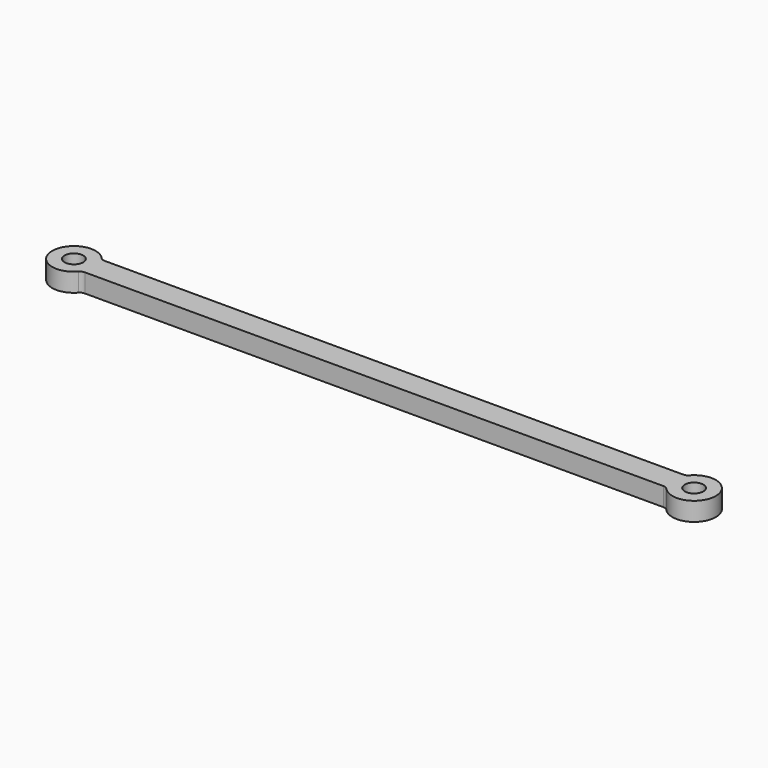
from build123d import *

# Parameters (mm, degrees)
F0_R     = 1.5
F1_DEPTH = 1.5


with BuildPart() as f1:
    # F0 (on Top) → F1 (new body, symmetric)
    with BuildSketch(Plane.XY):
        with BuildLine():
            ThreePointArc((-46.645898, 2), (-47.054146, 2.087129), (-47.391254, 2.333333))
            ThreePointArc((-47.391254, 2.333333), (-53.5, 0), (-47.391254, -2.333333))
            ThreePointArc((-47.391254, -2.333333), (-47.054146, -2.087129), (-46.645898, -2))
            Line((-46.645898, -2), (0, -2))
            Line((0, -2), (46.645898, -2))
            ThreePointArc((46.645898, -2), (47.054146, -2.087129), (47.391254, -2.333333))
            ThreePointArc((47.391254, -2.333333), (53.5, 0), (47.391254, 2.333333))
            ThreePointArc((47.391254, 2.333333), (47.054146, 2.087129), (46.645898, 2))
            Line((46.645898, 2), (0, 2))
            Line((0, 2), (-46.645898, 2))
        make_face()
        with Locations((-50, 0)):
            Circle(F0_R, mode=Mode.SUBTRACT)
        with Locations((50, 0)):
            Circle(F0_R, mode=Mode.SUBTRACT)
    extrude(amount=F1_DEPTH, both=True)


solid = f1.part
